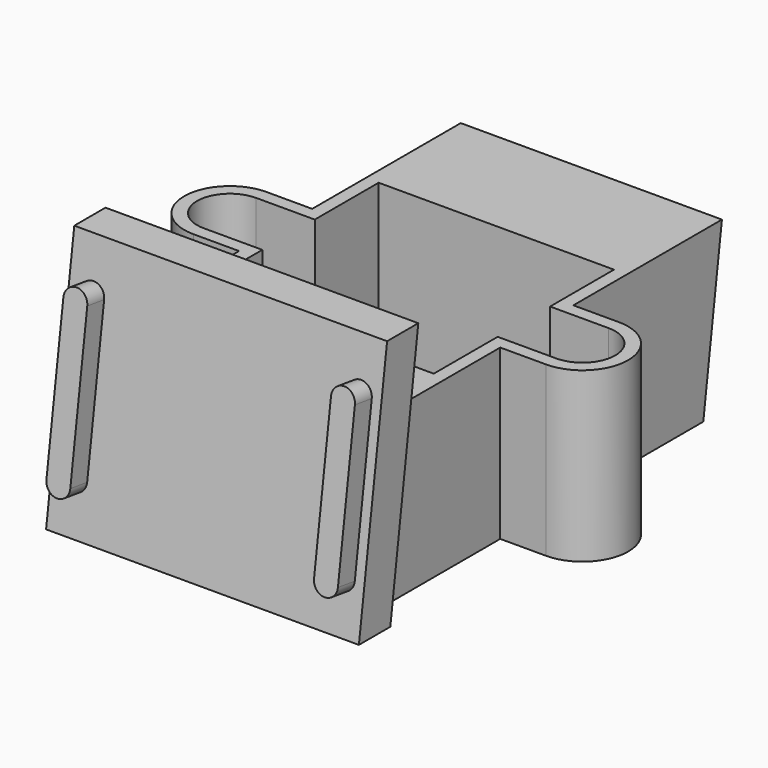
from build123d import *

# Parameters (mm, degrees)
F0_W      = 20.23
F0_H      = 6.185
F1_DEPTH  = 13.05
F2_W      = 18.23
F2_H      = 17.45
F3_DEPTH  = 12.55
F5_DEPTH  = 12.55
F6_R      = 7.95
F7_DEPTH  = 0.501
F8_W      = 20.23
F8_H      = 13.05
F9_DEPTH  = 10
F10_W     = 20.23
F10_H     = 9.9667743579
F11_DEPTH = 25
F13_DEPTH = 27.311
F15_DEPTH = 27.311
F17_W     = 20.23
F17_H     = 13.05
F18_DEPTH = 8.2
F20_DEPTH = 25
F22_DEPTH = 2
F23_DEPTH = 2
F25_DEPTH = 29.311
F27_DEPTH = 1.65


with BuildPart() as f1:
    # F0 (on Top) → F1 (new body)
    with BuildSketch(Plane.XY):
        with Locations((0, -6.6325)):
            Rectangle(F0_W, F0_H)
        Polygon((-10.115, -3.54), (10.115, -3.54), (10.115, 0), (10.115, 3.54), (-10.115, 3.54), (-10.115, 0), align=None)
        with BuildLine():
            Line((10.115, 0), (10.115, -3.54))
            Line((10.115, -3.54), (13.655, -3.54))
            ThreePointArc((13.655, -3.54), (11.1518419946, -2.5031580054), (10.115, 0))
        make_face()
        with BuildLine():
            Line((-13.655, -3.54), (-10.115, -3.54))
            Line((-10.115, -3.54), (-10.115, 0))
            ThreePointArc((-10.115, 0), (-11.1518419946, -2.5031580054), (-13.655, -3.54))
        make_face()
        with BuildLine():
            Line((10.115, 3.54), (10.115, 0))
            ThreePointArc((10.115, 0), (11.1518419946, 2.5031580054), (13.655, 3.54))
            Line((13.655, 3.54), (10.115, 3.54))
        make_face()
        with BuildLine():
            ThreePointArc((13.655, 3.54), (11.1518419946, 2.5031580054), (10.115, 0))
            ThreePointArc((10.115, 0), (11.1518419946, -2.5031580054), (13.655, -3.54))
            Line((13.655, -3.54), (13.655, 3.54))
        make_face()
        with BuildLine():
            Line((13.655, 3.54), (13.655, -3.54))
            ThreePointArc((13.655, -3.54), (16.1581580054, -2.5031580054), (17.195, 0))
            ThreePointArc((17.195, 0), (16.1581580054, 2.5031580054), (13.655, 3.54))
        make_face()
        with BuildLine():
            ThreePointArc((-13.655, 3.54), (-11.1518419946, 2.5031580054), (-10.115, 0))
            Line((-10.115, 0), (-10.115, 3.54))
            Line((-10.115, 3.54), (-13.655, 3.54))
        make_face()
        with BuildLine():
            ThreePointArc((-13.655, -3.54), (-11.1518419946, -2.5031580054), (-10.115, 0))
            ThreePointArc((-10.115, 0), (-11.1518419946, 2.5031580054), (-13.655, 3.54))
            Line((-13.655, 3.54), (-13.655, -3.54))
        make_face()
        with BuildLine():
            ThreePointArc((-13.655, 3.54), (-17.195, 0), (-13.655, -3.54))
            Line((-13.655, -3.54), (-13.655, 3.54))
        make_face()
        with Locations((0, 6.6325)):
            Rectangle(F0_W, F0_H)
    extrude(amount=F1_DEPTH)

    # F2 (on face) → F3 (cut)
    with BuildSketch(Plane.XY.offset(13.05)):
        Rectangle(F2_W, F2_H)
    extrude(amount=-F3_DEPTH, mode=Mode.SUBTRACT)

    # F4 (on face) → F5 (cut)
    with BuildSketch(Plane.XY.offset(13.05)):
        with BuildLine():
            ThreePointArc((-13.655, -2.54), (-11.8589487758, -1.7960512242), (-11.115, 0))
            ThreePointArc((-11.115, 0), (-11.8589487758, 1.7960512242), (-13.655, 2.54))
            Line((-13.655, 2.54), (-13.655, -2.54))
        make_face()
        with BuildLine():
            ThreePointArc((-13.655, 2.54), (-11.8589487758, 1.7960512242), (-11.115, 0))
            ThreePointArc((-11.115, 0), (-11.8589487758, -1.7960512242), (-13.655, -2.54))
            Line((-13.655, -2.54), (13.655, -2.54))
            ThreePointArc((13.655, -2.54), (11.115, 0), (13.655, 2.54))
            Line((13.655, 2.54), (-13.655, 2.54))
        make_face()
        with BuildLine():
            Line((-13.655, -2.54), (-13.655, 2.54))
            ThreePointArc((-13.655, 2.54), (-16.195, 0), (-13.655, -2.54))
        make_face()
        with BuildLine():
            Line((13.655, -2.54), (13.655, 2.54))
            ThreePointArc((13.655, 2.54), (11.115, 0), (13.655, -2.54))
        make_face()
        with BuildLine():
            ThreePointArc((16.195, 0), (15.4510512242, 1.7960512242), (13.655, 2.54))
            Line((13.655, 2.54), (13.655, -2.54))
            ThreePointArc((13.655, -2.54), (15.4510512242, -1.7960512242), (16.195, 0))
        make_face()
    extrude(amount=-F5_DEPTH, mode=Mode.SUBTRACT)

    # F6 (on face) → F7 (cut, through all)
    with BuildSketch(Plane.XY.offset(0.5)):
        Circle(F6_R)
    extrude(amount=-F7_DEPTH, mode=Mode.SUBTRACT)

    # F8 (on face) → F9 (join)
    with BuildSketch(Plane.XZ.offset(9.725)):
        with Locations((0, 6.525)):
            Rectangle(F8_W, F8_H)
    extrude(amount=F9_DEPTH)

    # F10 (on face) → F11 (join)
    with BuildSketch(Plane.XY.offset(13.05)):
        with Locations((0, -14.7416128211)):
            Rectangle(F10_W, F10_H)
    extrude(amount=F11_DEPTH)

    # F12 (on face) → F13 (cut, through all)
    with BuildSketch(Plane(origin=(-10.115, 0, 0), x_dir=(0, -1, 0), z_dir=(-1, 0, 0))):
        Polygon((19.725, 38.05), (14.4232781604, 38.05), (19.725, 0), align=None)
    extrude(amount=-F13_DEPTH, mode=Mode.SUBTRACT)

    # F14 (on face) → F15 (cut, through all)
    with BuildSketch(Plane(origin=(-10.115, 0, 0), x_dir=(0, -1, 0), z_dir=(-1, 0, 0))):
        Polygon((9.7582256421, 13.05), (14.8776879954, 13.05), (11.4232781604, 38.05), (9.7582256421, 38.05), align=None)
    extrude(amount=-F15_DEPTH, mode=Mode.SUBTRACT)

    # F17 (on face) → F18 (join)
    with BuildSketch(Plane(origin=(0, 9.725, 0), x_dir=(-1, 0, 0), z_dir=(0, 1, 0))):
        with Locations((0, 6.525)):
            Rectangle(F17_W, F17_H)
    extrude(amount=F18_DEPTH)

    # F19 (on face) → F20 (cut)
    with BuildSketch(Plane.YZ.offset(10.115)):
        Polygon((17.925, 0), (17.925, 13.05), (16.1217980661, 0), align=None)
    extrude(amount=-F20_DEPTH, mode=Mode.SUBTRACT)

    # F21 (on face) → F22 (join)
    with BuildSketch(Plane(origin=(-10.115, 0, 0), x_dir=(0, -1, 0), z_dir=(-1, 0, 0))):
        Polygon((19.725, 0), (14.4232781604, 38.05), (11.4232781604, 38.05), (16.6808899293, 0), align=None)
    extrude(amount=F22_DEPTH)

    # F16 (on face) → F23 (join)
    with BuildSketch(Plane.YZ.offset(10.115)):
        Polygon((-11.4232781604, 38.05), (-14.4232781604, 38.05), (-19.725, 0), (-16.6808899293, 0), (-14.8776879954, 13.05), align=None)
    extrude(amount=F23_DEPTH)

    # F24 (on face) → F25 (cut, through all)
    with BuildSketch(Plane(origin=(-12.115, 0, 0), x_dir=(0, -1, 0), z_dir=(-1, 0, 0))):
        Polygon((11.4232781604, 38.05), (13.9726326186, 19.6), (16.9940210761, 19.6), (14.4232781604, 38.05), align=None)
    extrude(amount=-F25_DEPTH, mode=Mode.SUBTRACT)

    # F26 (on face) → F27 (join)
    with BuildSketch(Plane(origin=(0, -19.349343601, 2.6960535493), x_dir=(1, 0, 0), z_dir=(0, -0.9904318834, 0.1380024795))):
        with BuildLine():
            ThreePointArc((-11.215, 13.1029010909), (-10.29, 12.1779010909), (-9.365, 13.1029010909))
            ThreePointArc((-9.365, 13.1029010909), (-10.29, 14.0279010909), (-11.215, 13.1029010909))
        make_face()
        with BuildLine():
            Line((-9.365, 1.2029010909), (-9.365, 13.1029010909))
            ThreePointArc((-9.365, 13.1029010909), (-10.29, 12.1779010909), (-11.215, 13.1029010909))
            Line((-11.215, 13.1029010909), (-11.215, 1.2029010909))
            ThreePointArc((-11.215, 1.2029010909), (-10.29, 2.1279010909), (-9.365, 1.2029010909))
        make_face()
        with BuildLine():
            ThreePointArc((-11.215, 1.2029010909), (-10.29, 0.2779010909), (-9.365, 1.2029010909))
            ThreePointArc((-9.365, 1.2029010909), (-10.29, 2.1279010909), (-11.215, 1.2029010909))
        make_face()
        with BuildLine():
            ThreePointArc((9.515, 13.1029010909), (10.44, 12.1779010909), (11.365, 13.1029010909))
            ThreePointArc((11.365, 13.1029010909), (10.44, 14.0279010909), (9.515, 13.1029010909))
        make_face()
        with BuildLine():
            Line((11.365, 1.2029010909), (11.365, 13.1029010909))
            ThreePointArc((11.365, 13.1029010909), (10.44, 12.1779010909), (9.515, 13.1029010909))
            Line((9.515, 13.1029010909), (9.515, 1.2029010909))
            ThreePointArc((9.515, 1.2029010909), (10.44, 2.1279010909), (11.365, 1.2029010909))
        make_face()
        with BuildLine():
            ThreePointArc((9.515, 1.2029010909), (10.44, 0.2779010909), (11.365, 1.2029010909))
            ThreePointArc((11.365, 1.2029010909), (10.44, 2.1279010909), (9.515, 1.2029010909))
        make_face()
    extrude(amount=F27_DEPTH)


solid = f1.part
